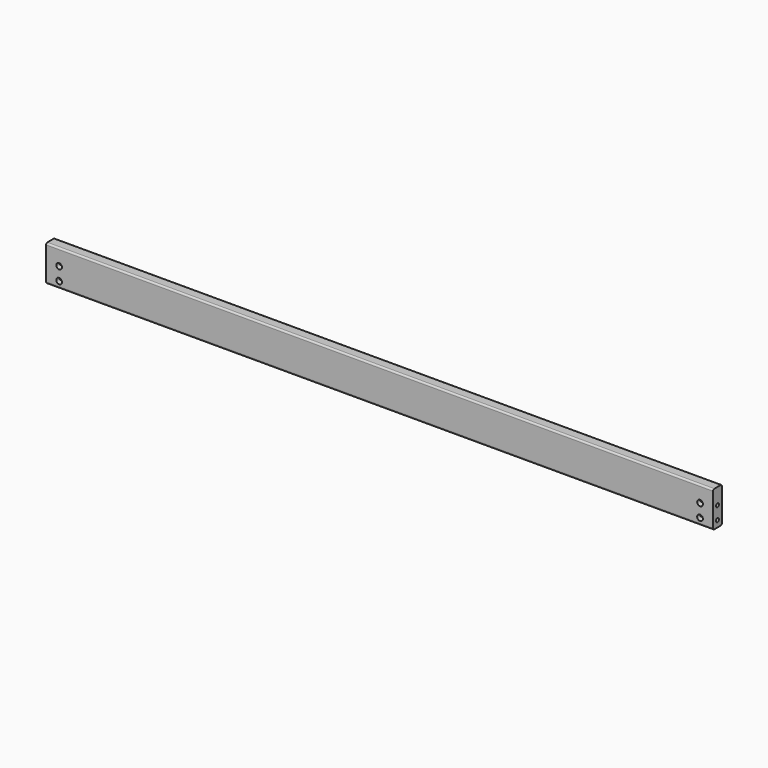
from build123d import *

# Parameters (mm, degrees)
F1_DEPTH       = 1300.1625
F4_D           = 7.14375
F4_DEPTH       = 38.1
F4_TIP         = 2.1461990236
F4_ON_F2_D     = 7.14375
F4_ON_F2_DEPTH = 38.1
F4_ON_F2_TIP   = 2.1461990236
F6_D           = 11.1125
F6_DEPTH       = 15
F6_TIP         = 3.3385318145


with BuildPart() as f1:
    # F0 (on Right) → F1 (new body)
    with BuildSketch(Plane.YZ):
        with BuildLine():
            Line((3.175, 0), (18.415, 0))
            ThreePointArc((18.415, 0), (20.6600640303, 0.9299359697), (21.59, 3.175))
            Line((21.59, 3.175), (21.59, 66.548))
            ThreePointArc((21.59, 66.548), (20.6600640303, 68.7930640303), (18.415, 69.723))
            Line((18.415, 69.723), (3.175, 69.723))
            ThreePointArc((3.175, 69.723), (0.9299359697, 68.7930640303), (0, 66.548))
            Line((0, 66.548), (0, 3.175))
            ThreePointArc((0, 3.175), (0.9299359697, 0.9299359697), (3.175, 0))
        make_face()
    extrude(amount=F1_DEPTH)

    # F4
    with Locations(Plane.YZ.offset(1300.1625)):
        with Locations((10.795, 38.1), (10.795, 12.7)):
            Hole(F4_D / 2, depth=F4_DEPTH)
            with Locations((0, 0, -(F4_DEPTH + F4_TIP / 2))):  # 118° drill point
                Cone(0, F4_D / 2, F4_TIP, mode=Mode.SUBTRACT)

    # F4 on F2
    with Locations(Plane(origin=(0, 0, 0), x_dir=(0, -1, 0), z_dir=(-1, 0, 0))):
        with Locations((-10.795, 38.1), (-10.795, 12.7)):
            Hole(F4_ON_F2_D / 2, depth=F4_ON_F2_DEPTH)
            with Locations((0, 0, -(F4_ON_F2_DEPTH + F4_ON_F2_TIP / 2))):  # 118° drill point
                Cone(0, F4_ON_F2_D / 2, F4_ON_F2_TIP, mode=Mode.SUBTRACT)

    # F6
    with Locations(Plane.XZ):
        with Locations((25.4, 38.1), (25.4, 12.7), (1274.7625, 38.1), (1274.7625, 12.7)):
            Hole(F6_D / 2, depth=F6_DEPTH)
            with Locations((0, 0, -(F6_DEPTH + F6_TIP / 2))):  # 118° drill point
                Cone(0, F6_D / 2, F6_TIP, mode=Mode.SUBTRACT)


solid = f1.part
